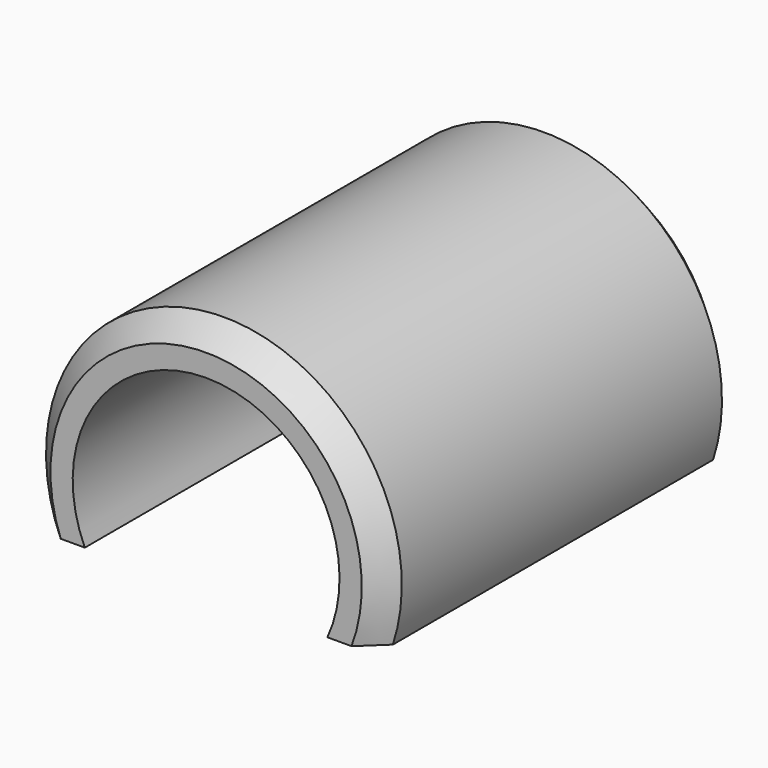
from build123d import *

# Parameters (mm, degrees)
BOX713_W        = 100
BOX713_H        = 100
BOX713_DEPTH    = 100
TUBE_R          = 16
TUBE_R_2        = 12
TUBE_DEPTH      = 40
CHAMFER002_SIZE = 2


with BuildPart() as krychle713:
    # Box713 → Box713 (new body)
    with BuildSketch(Plane(origin=(32, -54, -63), x_dir=(1, 0, 0), z_dir=(0, 0, 1))):
        with Locations((50, 50)):
            Rectangle(BOX713_W, BOX713_H)
    extrude(amount=BOX713_DEPTH)


with BuildPart() as cut530:
    # Tube → Tube (new body)
    with BuildSketch(Plane(origin=(75, 16, 42), x_dir=(1, 0, 0), z_dir=(0, -1, 0))):
        Circle(TUBE_R)
        Circle(TUBE_R_2, mode=Mode.SUBTRACT)
    extrude(amount=TUBE_DEPTH)

    # Chamfer002
    chamfer002_edges = [cut530.edges().sort_by_distance(p)[0] for p in [
        (59, -24, 42),
        (59, 16, 42),
    ]]
    chamfer(chamfer002_edges, length=CHAMFER002_SIZE)

    # Cut530: cut Krychle713
    add(krychle713.part, mode=Mode.SUBTRACT)


solid = cut530.part
